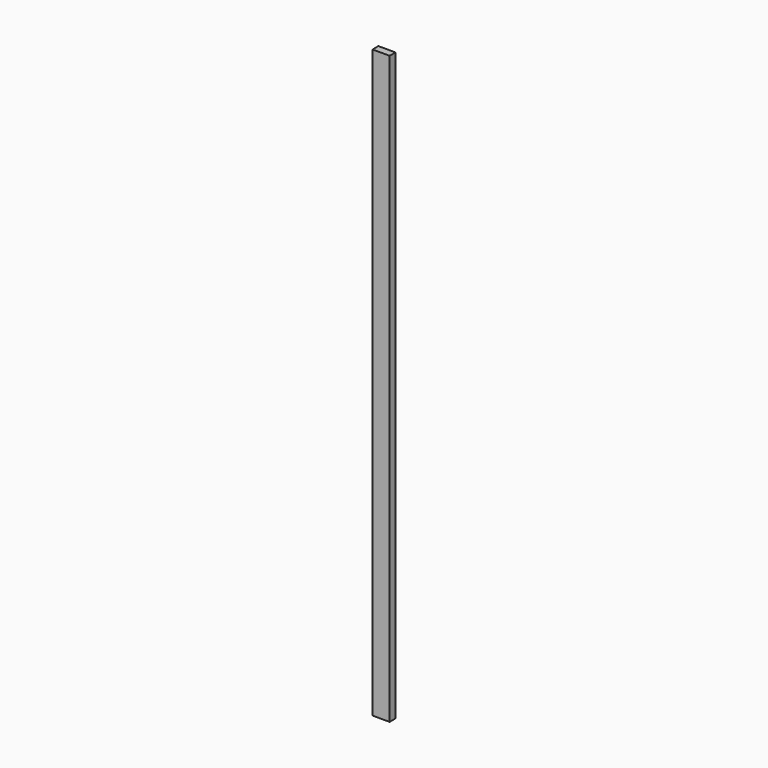
from build123d import *

# Parameters (mm, degrees)
F0_W     = 88.9
F0_H     = 38.1
F1_DEPTH = 1219.2
F2_DEPTH = 1828.8
F3_DEPTH = 2438.4
F4_DEPTH = 3048


with BuildPart() as f1:
    # F0 (on Top) → F1 (new body)
    with BuildSketch(Plane.XY):
        Rectangle(F0_W, F0_H)
    extrude(amount=F1_DEPTH)


with BuildPart() as f2:
    # F0 (on Top) → F2 (new body)
    with BuildSketch(Plane.XY):
        Rectangle(F0_W, F0_H)
    extrude(amount=F2_DEPTH)


with BuildPart() as f3:
    # F0 (on Top) → F3 (new body)
    with BuildSketch(Plane.XY):
        Rectangle(F0_W, F0_H)
    extrude(amount=F3_DEPTH)


with BuildPart() as f4:
    # F0 (on Top) → F4 (new body)
    with BuildSketch(Plane.XY):
        Rectangle(F0_W, F0_H)
    extrude(amount=F4_DEPTH)


solid = Compound([f1.part, f2.part, f3.part, f4.part])
